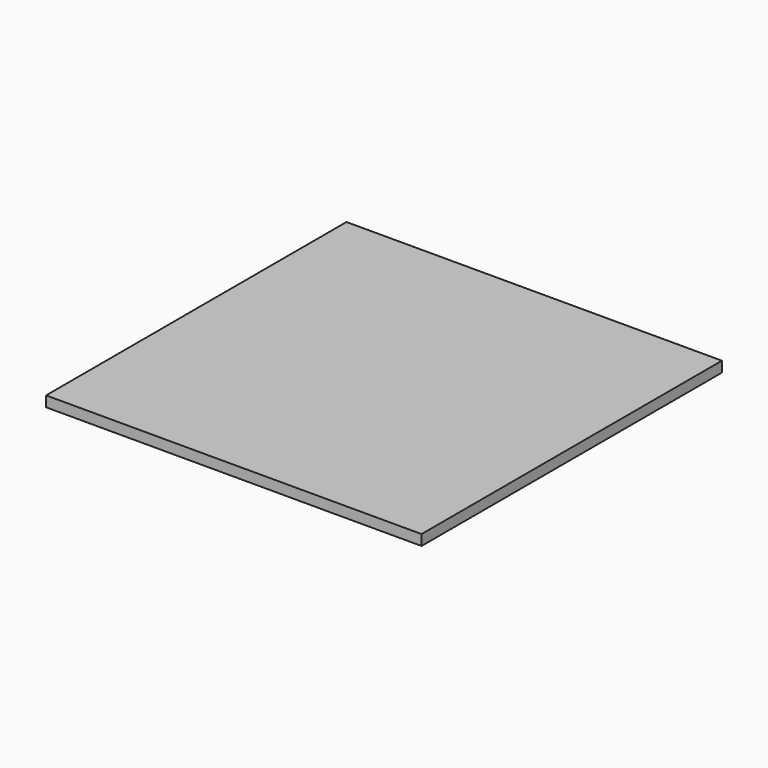
from build123d import *

# Parameters (mm, degrees)
SKETCH_W  = 10
SKETCH_H  = 10
PAD_DEPTH = 0.28


with BuildPart() as part:
    # Sketch → Pad (new body)
    with BuildSketch(Plane.XY):
        Rectangle(SKETCH_W, SKETCH_H)
    extrude(amount=PAD_DEPTH)


solid = part.part
